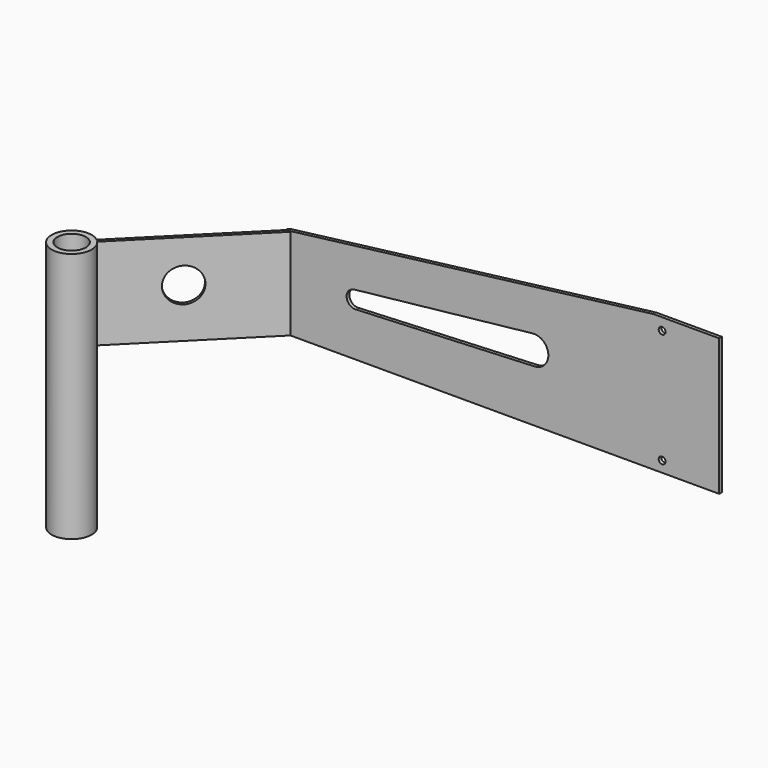
from build123d import *

# Parameters (mm, degrees)
F1_DEPTH  = 3
F4_DEPTH  = 80
F5_R      = 2
F6_DEPTH  = 80
F7_R      = 12.5
F8_DEPTH  = 3
F9_R      = 7.5
F10_DEPTH = 3.001
F12_DEPTH = 3
F15_DEPTH = 3.001
F17_DEPTH = 3.001
F18_DEPTH = 80
F13_R     = 15
F19_DEPTH = 70.1223203436
F21_DEPTH = 220
F22_R     = 12.5
F23_DEPTH = 220.001


with BuildPart() as f1:
    # F0 (on Front) → F1 (new body)
    with BuildSketch(Plane.XZ):
        Polygon((-93.6853438616, -3.4913793206), (286.3146561384, -3.4913793206), (286.3146561384, 116.5086206794), (228.8437245958, 116.5086206794), (-93.6853438616, 76.5086206794), align=None)
    extrude(amount=F1_DEPTH)

    # F2 (on face) → F4 (join)
    with BuildSketch(Plane(origin=(0, 0, -3.4913793206), x_dir=(1, 0, 0), z_dir=(0, 0, -1))):
        Polygon((-185.6092254158, 94.9238815543), (-93.6853438616, 3), (-89.4427031745, 3), (-183.4879050723, 97.0452018978), align=None)
    extrude(amount=-F4_DEPTH)

    # F5
    f5_edges = [f1.edges().sort_by_distance(p)[0] for p in [
        (-93.685344, 0, 36.508621),
    ]]
    fillet(f5_edges, radius=F5_R)

    # F7 (on face) → F8 (cut)
    with BuildSketch(Plane.XZ.offset(3)):
        with Locations((124.0946352482, 54.7083429992)):
            Circle(F7_R)
    extrude(amount=-F8_DEPTH, mode=Mode.SUBTRACT)

    # F9 (on face) → F10 (cut, through all)
    with BuildSketch(Plane.XZ.offset(3)):
        with Locations((-32.7149666846, 42.6947064698)):
            Circle(F9_R)
    extrude(amount=-F10_DEPTH, mode=Mode.SUBTRACT)

    # F11 (on face) → F12 (cut)
    with BuildSketch(Plane.XZ.offset(3)):
        with BuildLine():
            ThreePointArc((-25.2149666846, 42.6947064698), (-27.0880889677, 37.736052705), (-31.7718325937, 35.2542429031))
            Line((-31.7718325937, 35.2542429031), (124.6507872105, 42.2207213283))
            ThreePointArc((124.6507872105, 42.2207213283), (111.6310963493, 53.754299962), (122.7436713431, 67.1351244219))
            Line((122.7436713431, 67.1351244219), (-33.2737348604, 50.173862714))
            ThreePointArc((-33.2737348604, 50.173862714), (-27.6130435824, 48.192013143), (-25.2149666846, 42.6947064698))
        make_face()
    extrude(amount=-F12_DEPTH, mode=Mode.SUBTRACT)

    # F14 (on face) → F15 (cut, through all)
    with BuildSketch(Plane.XZ.offset(3)):
        with BuildLine():
            ThreePointArc((239.3146561384, 106.0872673988), (238.435976482, 108.2085877424), (236.3146561384, 109.0872673988))
            ThreePointArc((236.3146561384, 109.0872673988), (234.1933357949, 103.9659470553), (239.3146561384, 106.0872673988))
        make_face()
    extrude(amount=-F15_DEPTH, mode=Mode.SUBTRACT)

    # F16 (on face) → F17 (cut, through all)
    with BuildSketch(Plane.XZ.offset(3)):
        with BuildLine():
            ThreePointArc((239.3146561384, 6.0872673988), (238.435976482, 8.2085877424), (236.3146561384, 9.0872673988))
            ThreePointArc((236.3146561384, 9.0872673988), (234.1933357949, 3.9659470553), (239.3146561384, 6.0872673988))
        make_face()
    extrude(amount=-F17_DEPTH, mode=Mode.SUBTRACT)



with BuildPart() as f6:
    # F3 (on face) → F6 (new body)
    with BuildSketch(Plane(origin=(0, 0, -3.4913793206), x_dir=(1, 0, 0), z_dir=(0, 0, -1))):
        Polygon((-183.4879050723, 97.0452018978), (-185.6092254158, 94.9238815543), (-93.6853438616, 3), (-89.4427031745, 3), align=None)
    extrude(amount=-F6_DEPTH)


with BuildPart() as f1_1:
    add(f1.part)

    add(f6.part)  # F18 merges F6
    # F2 (on face) → F18 (join)
    with BuildSketch(Plane(origin=(0, 0, -3.4913793206), x_dir=(1, 0, 0), z_dir=(0, 0, -1))):
        Polygon((-185.6092254158, 94.9238815543), (-93.6853438616, 3), (-89.4427031745, 3), (-183.4879050723, 97.0452018978), align=None)
    extrude(amount=-F18_DEPTH)

    # F13 (on face) → F19 (cut, through all)
    with BuildSketch(Plane(origin=(-43.2213515872, 43.2213515872, 0), x_dir=(0.7071067812, 0.7071067812, 0), z_dir=(0.7071067812, -0.7071067812, 0))):
        with Locations((-138.838544488, 39.6711453795)):
            Circle(F13_R)
    extrude(amount=-F19_DEPTH, mode=Mode.SUBTRACT)

    # F20 (on face) → F21 (join)
    with BuildSketch(Plane.XY.offset(76.5086206794)):
        with BuildLine():
            Line((-184.5485652441, -95.984541726), (-184.0766972591, -96.456409711))
            ThreePointArc((-184.0766972591, -96.456409711), (-184.3103818476, -96.2182263145), (-184.5485652441, -95.984541726))
        make_face()
        with BuildLine():
            ThreePointArc((-184.5485652441, -95.984541726), (-212.7880613937, -115.4433890159), (-179.1847505183, -108.5925949853))
            ThreePointArc((-179.1847505183, -108.5925949853), (-180.4537472832, -102.0500775813), (-184.0766972591, -96.456409711))
            Line((-184.0766972591, -96.456409711), (-184.5485652441, -95.984541726))
        make_face()
    extrude(amount=-F21_DEPTH)

    # F22 (on face) → F23 (cut, through all)
    with BuildSketch(Plane.XY.offset(76.5086206794)):
        with Locations((-196.6847505183, -108.5925949853)):
            Circle(F22_R)
    extrude(amount=-F23_DEPTH, mode=Mode.SUBTRACT)


with BuildPart() as f24_1:
    # F24: instance of F1
    add(f1_1.part.mirror(Plane.YZ))


solid = f1_1.part
